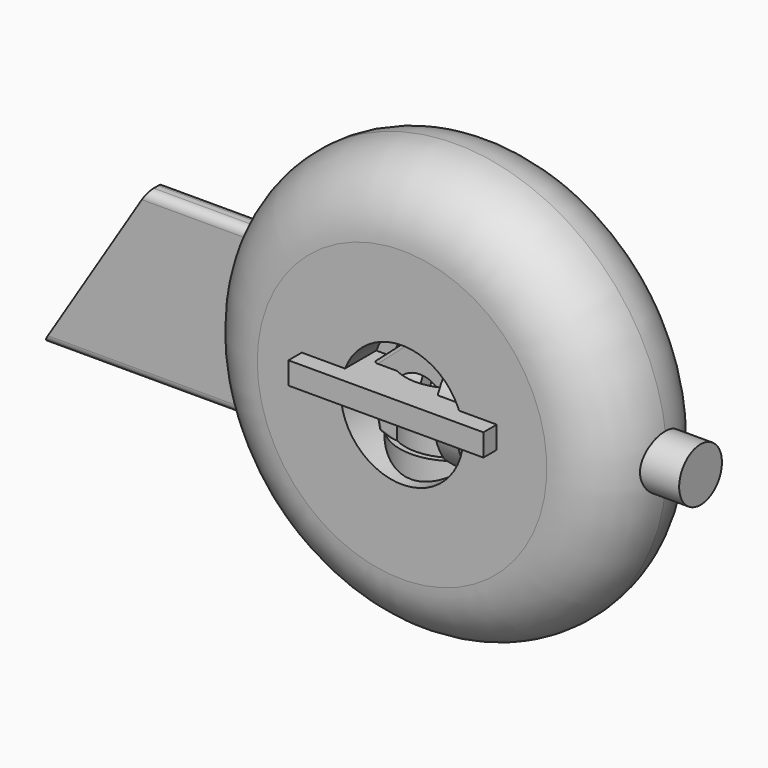
from build123d import *

# Parameters (mm, degrees)
F1_R      = 9
F2_DEPTH  = 4
F3_R      = 4
F4_DEPTH  = 4
F5_R      = 1.5
F8_SIZE   = 0.5
F17_R     = 6
F17_R_2   = 4
F18_DEPTH = 10
F19_DEPTH = 3
F20_R     = 3.8
F21_DEPTH = 6.5
F22_R     = 0.5
F23_R     = 4.8
F24_DEPTH = 8
F25_R     = 0.5


with BuildPart() as f2:
    # F1 (on Top) → F2 (new body)
    with BuildSketch(Plane.XY):
        with BuildLine():
            Line((17, 15), (-18, 15))
            Line((-18, 15), (-18, 1))
            ThreePointArc((-18, 1), (-17.2928932188, 0.7071067812), (-17, 0))
            ThreePointArc((-17, 0), (-17.2928932188, -0.7071067812), (-18, -1))
            Line((-18, -1), (-18, -15))
            Line((-18, -15), (17, -15))
            Line((17, -15), (17, 15))
        make_face()
        Circle(F1_R, mode=Mode.SUBTRACT)
    extrude(amount=F2_DEPTH)


with BuildPart() as f4:
    # F3 (on Front) → F4 (new body)
    with BuildSketch(Plane.XZ):
        Polygon((-52.1935324945, 15), (-70.9396130517, -15), (0.0603869483, -15), (18.8064675055, 15), align=None)
        Circle(F3_R, mode=Mode.SUBTRACT)
    extrude(amount=F4_DEPTH)

    # F5
    f5_edges = [f4.edges().sort_by_distance(p)[0] for p in [
        (-16.693532, -4, 15),
        (-16.693532, 0, 15),
        (-35.439613, 0, -15),
        (-35.439613, -4, -15),
    ]]
    fillet(f5_edges, radius=F5_R)


with BuildPart() as f7:
    # F6 (on Front) → F7 (revolve)
    with BuildSketch(Plane.XZ):
        Polygon((-9, -7), (-10, -7), (-10, -25), (-6, -25), (-6, 0), (-9, 0), align=None)
    revolve(axis=Axis((0, 0, -12.5), (0, 0, -1)))

    # F8
    f8_edges = [f7.edges().sort_by_distance(p)[0] for p in [
        (6, 0, 0),
    ]]
    chamfer(f8_edges, length=F8_SIZE)


with BuildPart() as f10:
    # F9 (on Front) → F10 (revolve)
    with BuildSketch(Plane.XZ):
        Polygon((44, 0), (0, 0), (0, -1.6), (-20, -1.6), (-20, -6), (5, -6), (5, -11), (9, -11), (9, -5), (29, -5), (29, -4.8), (44, -4.8), align=None)
    revolve(axis=Axis((22, 0, 0), (1, 0, 0)))


with BuildPart() as f12:
    # F11 (on Top) → F12 (revolve)
    with BuildSketch(Plane.XY):
        with BuildLine():
            Line((-11, 5), (-11, 12))
            Line((-11, 12), (-26, 12))
            ThreePointArc((-26, 12), (-34.4852813742, 8.4852813742), (-38, 0))
            ThreePointArc((-38, 0), (-34.4852813742, -8.4852813742), (-26, -12))
            Line((-26, -12), (-11, -12))
            Line((-11, -12), (-11, -5))
            Line((-11, -5), (-7, -5))
            Line((-7, -5), (-7, 5))
            Line((-7, 5), (-11, 5))
        make_face()
    revolve(axis=Axis((0, 0, 0), (0, -1, 0)))


with BuildPart() as f14:
    # F13 (on Top) → F14 (revolve)
    with BuildSketch(Plane.XY):
        Polygon((-9, 3.5), (-11, 3.5), (-11, -3.5), (-9, -3.5), (-9, -2.5), (-6, -2.5), (-6, -3.5), (-4, -3.5), (-4, 3.5), (-6, 3.5), (-6, 2.5), (-9, 2.5), align=None)
    revolve(axis=Axis((0, 0, 0), (0, 1, 0)))


with BuildPart() as f16:
    # F15 (on Top) → F16 (revolve)
    with BuildSketch(Plane.XY):
        Polygon((0, 0), (-55, 0), (-55, -3.8), (-44, -3.8), (-44, -4), (-6, -4), (-6, -8.5), (0, -8.5), align=None)
    revolve(axis=Axis((-27.5, 0, 0), (-1, 0, 0)))


with BuildPart() as f18:
    # F17 (on Right) → F18 (new body)
    with BuildSketch(Plane.YZ):
        Circle(F17_R)
        Circle(F17_R_2, mode=Mode.SUBTRACT)
    extrude(amount=F18_DEPTH)


with BuildPart() as f19:
    # F17 (on Right) → F19 (new body)
    with BuildSketch(Plane.YZ):
        Circle(F17_R)
        Circle(F17_R_2, mode=Mode.SUBTRACT)
    extrude(amount=F19_DEPTH)


with BuildPart() as f21:
    # F20 (on Front) → F21 (new body)
    with BuildSketch(Plane.XZ):
        Polygon((3.9366893947, -6.3902902863), (7.5024984228, 0.2141278795), (3.5658090281, 6.6044181658), (-3.9366893947, 6.3902902863), (-7.5024984228, -0.2141278795), (-3.5658090281, -6.6044181658), align=None)
        Circle(F20_R, mode=Mode.SUBTRACT)
    extrude(amount=F21_DEPTH)

    # F22
    f22_edges = [f21.edges().sort_by_distance(p)[0] for p in [
        (-0.18544, 0, 6.497354),
        (-5.719594, 0, 3.088081),
        (-5.534154, 0, -3.409273),
        (0.18544, 0, -6.497354),
        (5.719594, 0, -3.088081),
        (5.534154, 0, 3.409273),
        (0.18544, -6.5, -6.497354),
        (-5.534154, -6.5, -3.409273),
        (5.719594, -6.5, -3.088081),
        (5.534154, -6.5, 3.409273),
        (-0.18544, -6.5, 6.497354),
        (-5.719594, -6.5, 3.088081),
        (-3.936689, -3.25, 6.39029),
        (3.565809, -3.25, 6.604418),
        (7.502498, -3.25, 0.214128),
        (-7.502498, -3.25, -0.214128),
        (-3.565809, -3.25, -6.604418),
        (3.936689, -3.25, -6.39029),
    ]]
    fillet(f22_edges, radius=F22_R)


with BuildPart() as f24:
    # F23 (on Front) → F24 (new body)
    with BuildSketch(Plane.XZ):
        Polygon((1.9495320925, -9.6193896872), (9.3054018842, -3.121350526), (7.3558697918, 6.4980391612), (-1.9495320925, 9.6193896872), (-9.3054018842, 3.121350526), (-7.3558697918, -6.4980391612), align=None)
        Circle(F23_R, mode=Mode.SUBTRACT)
    extrude(amount=F24_DEPTH)

    # F25
    f25_edges = [f24.edges().sort_by_distance(p)[0] for p in [
        (-7.35587, -4, -6.498039),
        (1.949532, -4, -9.61939),
        (-2.703169, 0, -8.058714),
        (-2.703169, -8, -8.058714),
        (-9.305402, -4, 3.121351),
        (-8.330636, 0, -1.688344),
        (-8.330636, -8, -1.688344),
        (-1.949532, -4, 9.61939),
        (-5.627467, 0, 6.37037),
        (-5.627467, -8, 6.37037),
        (7.35587, -4, 6.498039),
        (2.703169, 0, 8.058714),
        (2.703169, -8, 8.058714),
        (9.305402, -4, -3.121351),
        (8.330636, 0, 1.688344),
        (8.330636, -8, 1.688344),
        (5.627467, 0, -6.37037),
        (5.627467, -8, -6.37037),
    ]]
    fillet(f25_edges, radius=F25_R)


solid = Compound([f2.part, f4.part, f7.part, f10.part, f12.part, f14.part, f16.part, f18.part, f19.part, f21.part, f24.part])
